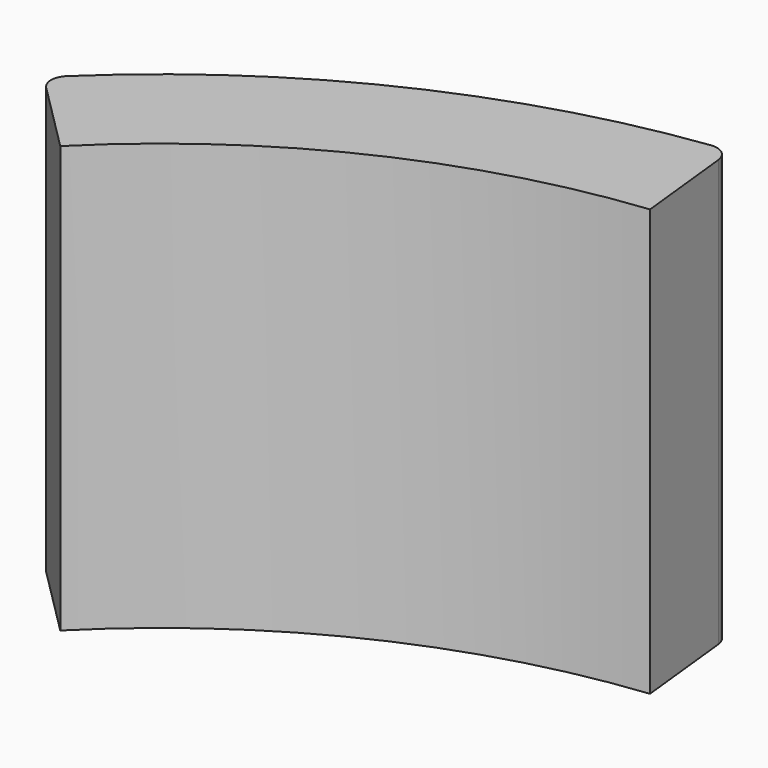
from build123d import *

# Parameters (mm, degrees)
F1_DEPTH = 6


with BuildPart() as f1:
    # F0 (on Top) → F1 (new body)
    with BuildSketch(Plane.XY):
        with BuildLine():
            ThreePointArc((-8.05516, 8.416466), (-8.132287, 8.238597), (-8.059079, 8.059079))
            Line((-8.059079, 8.059079), (-7.071068, 7.071068))
            ThreePointArc((-7.071068, 7.071068), (-4.316488, 9.020417), (-1.070361, 9.942551))
            Line((-1.070361, 9.942551), (-1.219918, 11.331783))
            ThreePointArc((-1.219918, 11.331783), (-1.313786, 11.501414), (-1.500685, 11.552941))
            ThreePointArc((-1.500685, 11.552941), (-5.028709, 10.508786), (-8.05516, 8.416466))
        make_face()
    extrude(amount=F1_DEPTH)


solid = f1.part
